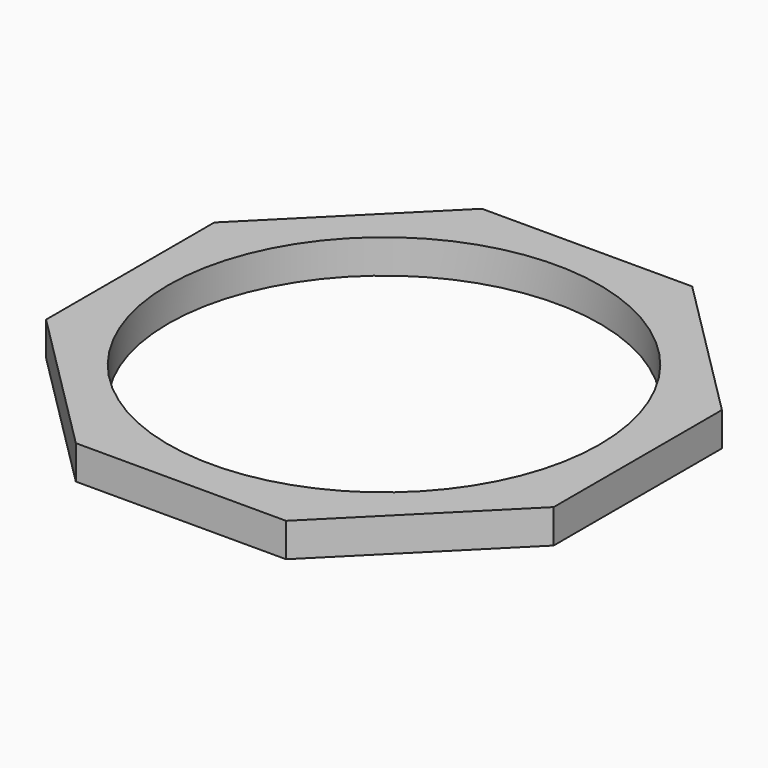
from build123d import *

# Parameters (mm, degrees)
F0_R     = 5.1
F1_DEPTH = 0.8


with BuildPart() as f1:
    # F0 (on Top) → F1 (new body)
    with BuildSketch(Plane.XY):
        Polygon((2.485281, 6), (-2.485281, 6), (-6, 2.485281), (-6, -2.485281), (-2.485281, -6), (2.485281, -6), (6, -2.485281), (6, 2.485281), align=None)
        Circle(F0_R, mode=Mode.SUBTRACT)
    extrude(amount=F1_DEPTH)


solid = f1.part
